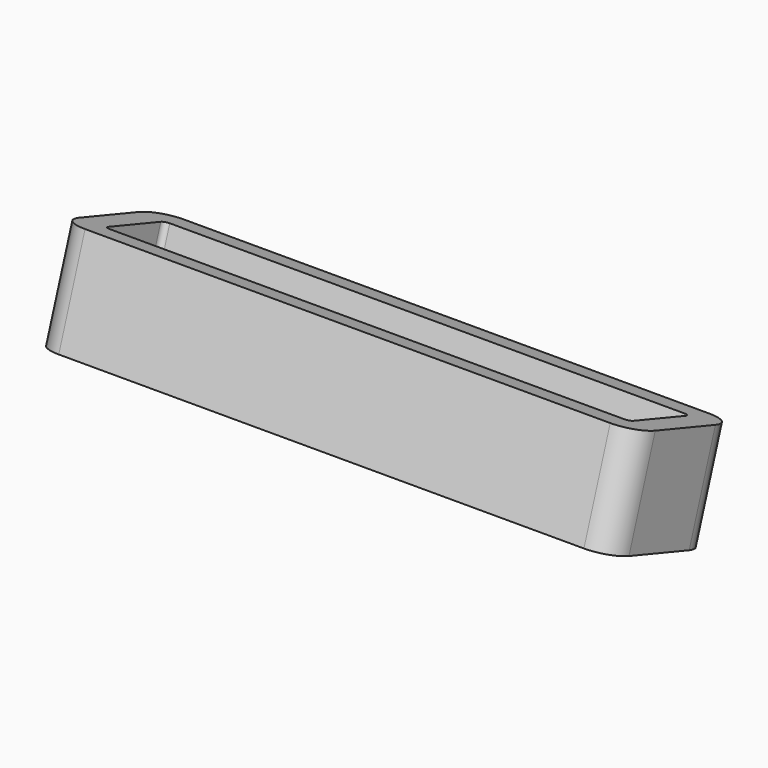
from build123d import *

# Parameters (mm, degrees)
PAD004_DEPTH    = 11.25
POCKET001_DEPTH = 5
FILLET002_R     = 1


with BuildPart() as part:
    # Sketch033 → Pad004 (new body, symmetric)
    with BuildSketch(Plane.YZ):
        Polygon((27.3746847171, -17.3800460051), (32.2053280153, -19.0155536712), (30.9225769046, -22.8042935129), (26.0919336064, -21.1687858467), align=None)
    extrude(amount=PAD004_DEPTH, both=True)

    # Sketch034 (on Face1 of Pad004) → Pocket001 (cut)
    with BuildSketch(Plane(origin=(0, -2.463969707, -7.2775927611), x_dir=(0, -0.9471849604, 0.3206877777), z_dir=(0, 0.3206877777, 0.9471849604))):
        with BuildLine():
            Line((-35.4024579896, 10.25), (-32.7024579896, 10.25))
            ThreePointArc((-32.5024579896, 10.05), (-32.5610366334, 10.1914213562), (-32.7024579896, 10.25))
            Line((-32.5024579896, 10.05), (-32.5024579896, -10.05))
            ThreePointArc((-32.7024579896, -10.25), (-32.5610366334, -10.1914213562), (-32.5024579896, -10.05))
            Line((-32.7024579896, -10.25), (-35.4024579896, -10.25))
            ThreePointArc((-35.6024579896, -10.05), (-35.5438793458, -10.1914213562), (-35.4024579896, -10.25))
            Line((-35.6024579896, -10.05), (-35.6024579896, 10.05))
            ThreePointArc((-35.4024579896, 10.25), (-35.5438793458, 10.1914213562), (-35.6024579896, 10.05))
        make_face()
    extrude(amount=-POCKET001_DEPTH, mode=Mode.SUBTRACT)

    # Fillet002
    fillet002_edges = [part.edges().sort_by_distance(p)[0] for p in [
        (11.25, 31.563952, -20.909924),
        (11.25, 26.733309, -19.274416),
        (-11.25, 31.563952, -20.909924),
        (-11.25, 26.733309, -19.274416),
    ]]
    fillet(fillet002_edges, radius=FILLET002_R)


solid = part.part
